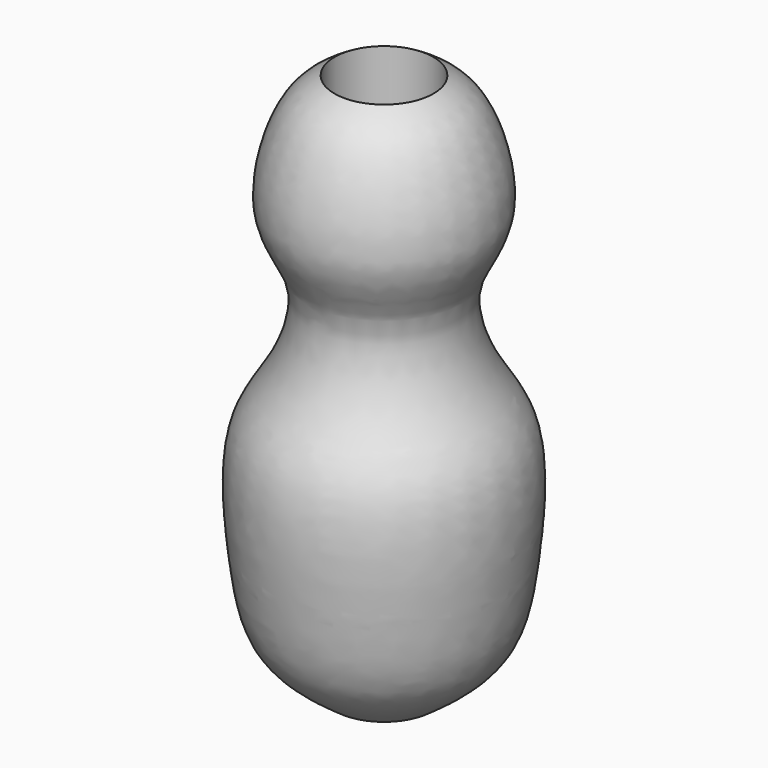
from build123d import *


with BuildPart() as f1:
    # F0 (on Right) → F1 (revolve)
    with BuildSketch(Plane.YZ):
        with BuildLine():
            add(Edge.make_bspline(
                [(0, 0), (-1.0385238198, 0.7363747336), (-3.164497923, 2.2438159535), (-3.8357876557, 6.250129074), (-4.3525924751, 12.3527802722), (-2.0027962292, 14.9403809765), (-0.7178837266, 19.1392955521), (-3.4892661773, 21.9548346299), (-2.009789997, 27.4101476604), (-0.5722854996, 28.267105969), (0, 28.6082699895)],
                knots=[0, 0, 0, 0, 0.1212176199, 0.2481459895, 0.4016511063, 0.519520311, 0.6433571757, 0.7634400564, 0.9058230247, 1, 1, 1, 1], degree=3))
            Line((0, 0), (0, 28.6082699895))
        make_face()
    revolve(axis=Axis((0, 2.6061192621, 14.3041349947), (0, 0, -1)))


solid = f1.part
